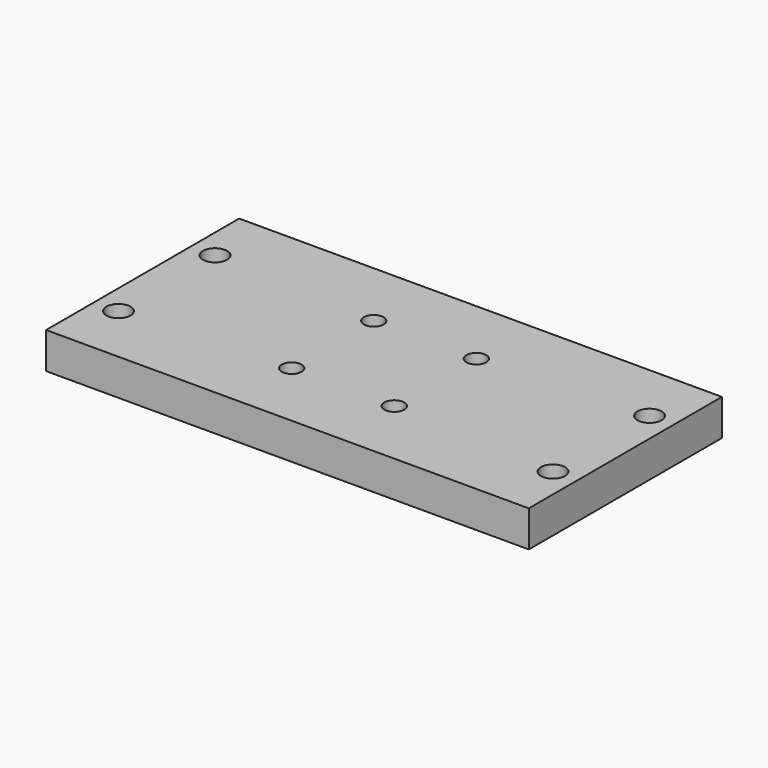
from build123d import *

# Parameters (mm, degrees)
F0_W     = 254
F0_H     = 127
F0_R     = 6.35
F0_R_2   = 5.207
F1_DEPTH = 19.05


with BuildPart() as f1:
    # F0 (on Top) → F1 (new body)
    with BuildSketch(Plane.XY):
        Rectangle(F0_W, F0_H)
        with Locations((-114.3, -31.75)):
            Circle(F0_R, mode=Mode.SUBTRACT)
        with Locations((-26.9875, -26.9875)):
            Circle(F0_R_2, mode=Mode.SUBTRACT)
        with Locations((26.9875, -26.9875)):
            Circle(F0_R_2, mode=Mode.SUBTRACT)
        with Locations((114.3, -31.75)):
            Circle(F0_R, mode=Mode.SUBTRACT)
        with Locations((-26.9875, 26.9875)):
            Circle(F0_R_2, mode=Mode.SUBTRACT)
        with Locations((-114.3, 31.75)):
            Circle(F0_R, mode=Mode.SUBTRACT)
        with Locations((26.9875, 26.9875)):
            Circle(F0_R_2, mode=Mode.SUBTRACT)
        with Locations((114.3, 31.75)):
            Circle(F0_R, mode=Mode.SUBTRACT)
    extrude(amount=F1_DEPTH)


solid = f1.part
